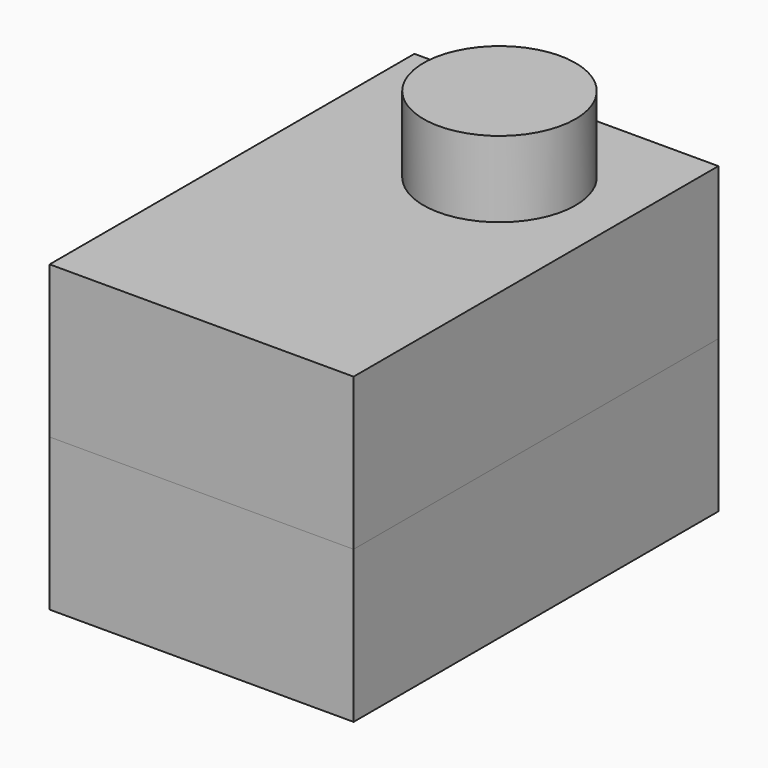
from build123d import *

# Parameters (mm, degrees)
F0_W     = 50.8
F0_H     = 76.2
F1_DEPTH = 25.4
F2_R     = 12.7
F3_DEPTH = 12.7
F4_W     = 50.8
F4_H     = 76.2
F4_R     = 13.97
F5_DEPTH = 25.4


with BuildPart() as f1:
    # F0 (on Top) → F1 (new body)
    with BuildSketch(Plane.XY):
        Rectangle(F0_W, F0_H)
    extrude(amount=F1_DEPTH)

    # F2 (on face) → F3 (join)
    with BuildSketch(Plane.XY.offset(25.4)):
        with Locations((5.08, 17.78)):
            Circle(F2_R)
    extrude(amount=F3_DEPTH)


with BuildPart() as f5:
    # F4 (on Top) → F5 (new body)
    with BuildSketch(Plane.XY):
        Rectangle(F4_W, F4_H)
        with Locations((5.08, 17.78)):
            Circle(F4_R, mode=Mode.SUBTRACT)
    extrude(amount=-F5_DEPTH)


solid = Compound([f1.part, f5.part])
